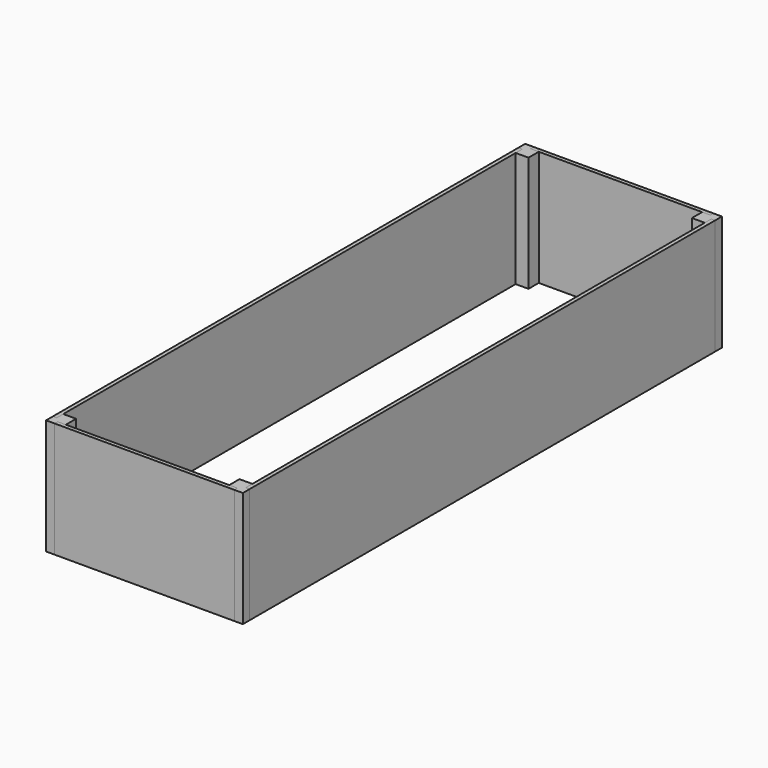
from build123d import *

# Parameters (mm, degrees)
F2_DEPTH = 270
F5_DEPTH = 270
F7_DEPTH = 270


with BuildPart() as f2:
    # F0 (on Top) → F2 (new body)
    with BuildSketch(Plane.XY):
        Polygon((-210, 700), (-230, 700), (-230, 680), (-221, 680), (-221, 661), (-191, 661), (-191, 691), (-210, 691), align=None)
    extrude(amount=F2_DEPTH)


with BuildPart() as f3_1:
    # F3: instance of F2
    add(f2.part.mirror(Plane.YZ))


with BuildPart() as f4_1:
    # F4: instance of F2
    add(f2.part.mirror(Plane.XZ))


with BuildPart() as f4_2:
    # F4: instance of F3_1
    add(f3_1.part.mirror(Plane.XZ))


with BuildPart() as f5:
    # F0 (on Top) → F5 (new body)
    with BuildSketch(Plane.XY):
        Polygon((-221, 680), (-230, 680), (-230, -680), (-221, -680), (-221, -661), (-221, 661), align=None)
    extrude(amount=F5_DEPTH)


with BuildPart() as f6_1:
    # F6: instance of F5
    add(f5.part.mirror(Plane.YZ))


with BuildPart() as f7:
    # F0 (on Top) → F7 (new body)
    with BuildSketch(Plane.XY):
        Polygon((210, 700), (-210, 700), (-210, 691), (-191, 691), (191, 691), (210, 691), align=None)
    extrude(amount=F7_DEPTH)


with BuildPart() as f8_1:
    # F8: instance of F7
    add(f7.part.mirror(Plane.XZ))


solid = Compound([f2.part, f3_1.part, f4_1.part, f4_2.part, f5.part, f6_1.part, f7.part, f8_1.part])
